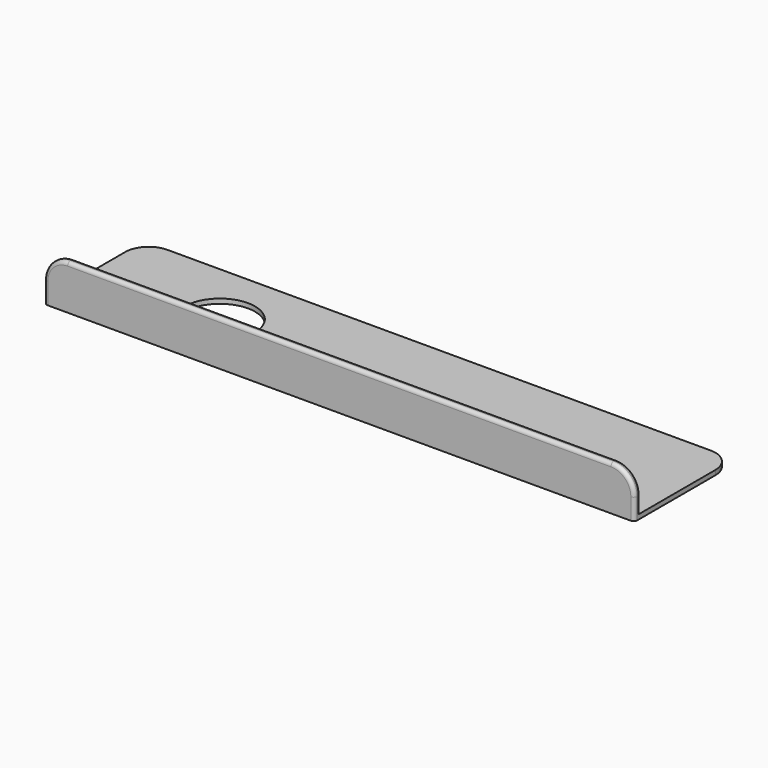
from build123d import *

# Parameters (mm, degrees)
F1_DEPTH = 50.4
F2_R     = 3
F3_DEPTH = 0.401
F4_R     = 2
F5_R     = 0.3


with BuildPart() as f1:
    # F0 (on Right) → F1 (new body)
    with BuildSketch(Plane.YZ):
        Polygon((0, 3.8), (0, 0), (10.65, 0), (10.65, 0.4), (0.65, 0.4), (0.65, 3.8), align=None)
    extrude(amount=F1_DEPTH)

    # F2 (on face) → F3 (cut, through all)
    with BuildSketch(Plane.XY.offset(0.4)):
        with Locations((11, 5)):
            Circle(F2_R)
    extrude(amount=-F3_DEPTH, mode=Mode.SUBTRACT)

    # F4
    f4_edges = [f1.edges().sort_by_distance(p)[0] for p in [
        (0, 10.65, 0.2),
        (50.4, 10.65, 0.2),
        (50.4, 0.325, 3.8),
        (0, 0.325, 3.8),
    ]]
    fillet(f4_edges, radius=F4_R)

    # F5
    f5_edges = [f1.edges().sort_by_distance(p)[0] for p in [
        (0.585786, 0, 3.214214),
        (49.814214, 0, 3.214214),
        (50.4, 0.65, 1.1),
        (0, 0.65, 1.1),
    ]]
    fillet(f5_edges, radius=F5_R)


solid = f1.part
